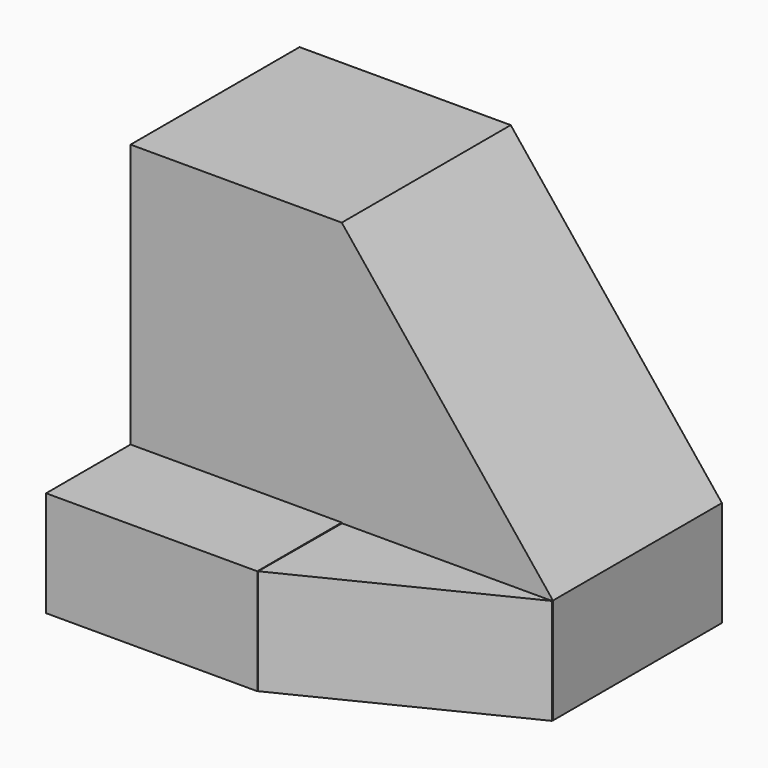
from build123d import *

# Parameters (mm, degrees)
F1_DEPTH = 25.4
F2_W     = 25.4
F2_H     = 12.7
F3_DEPTH = 12.7
F5_DEPTH = 12.7


with BuildPart() as f1:
    # F0 (on Front) → F1 (new body)
    with BuildSketch(Plane.XZ):
        Polygon((0, 0), (0, 12.7), (-25.4, 44.45), (-50.8, 44.45), (-50.8, 0), align=None)
    extrude(amount=F1_DEPTH)

    # F2 (on face) → F3 (join)
    with BuildSketch(Plane.XZ.offset(25.4)):
        with Locations((-38.1, 6.35)):
            Rectangle(F2_W, F2_H)
    extrude(amount=F3_DEPTH)


with BuildPart() as f5:
    # F4 (on Top) → F5 (new body)
    with BuildSketch(Plane.XY):
        Polygon((-25.273444, -25.511744), (-25.331819, -38.044803), (0, -25.511744), align=None)
    extrude(amount=F5_DEPTH)


solid = Compound([f1.part, f5.part])
